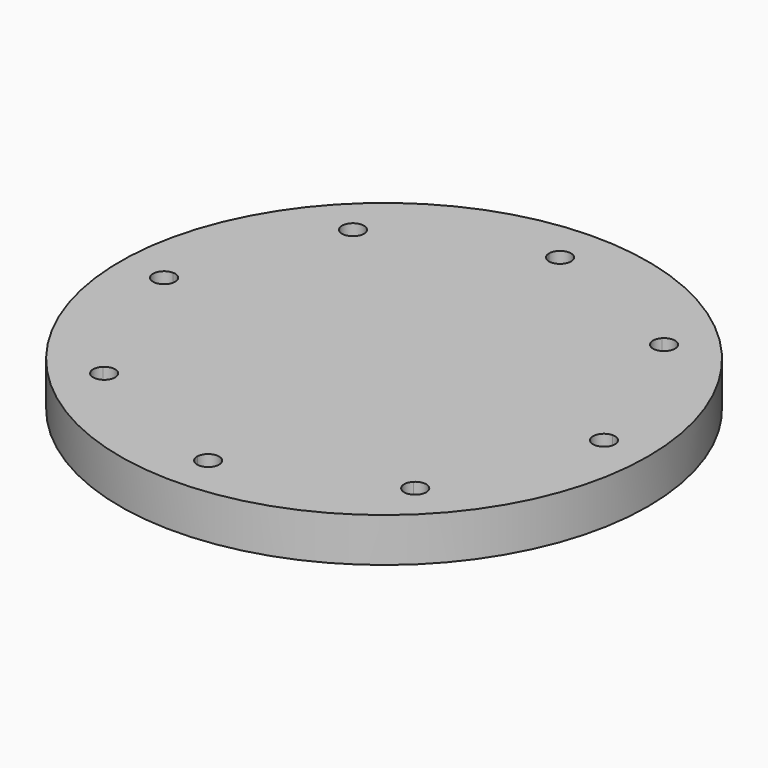
from build123d import *

# Parameters (mm, degrees)
F0_R     = 76.2
F1_DEPTH = 12.7


with BuildPart() as f1:
    # F0 (on Top) → F1 (new body)
    with BuildSketch(Plane.XY):
        Circle(F0_R)
        with BuildLine():
            ThreePointArc((47.0895163427, 42.6007916665), (58.6663503145, 24.3003979552), (63.420625, 3.1740076574))
            ThreePointArc((63.420625, 3.1740076574), (65.7168231069, 2.2729540938), (66.675, 0))
            ThreePointArc((66.675, 0), (65.7168231069, -2.2729540938), (63.420625, -3.1740076574))
            ThreePointArc((63.420625, -3.1740076574), (58.6663503145, -24.3003979552), (47.0895163427, -42.6007916665))
            ThreePointArc((47.0895163427, -42.6007916665), (47.8191799753, -43.6496863153), (48.0762806053, -44.9012806053))
            ThreePointArc((48.0762806053, -44.9012806053), (46.0795362268, -47.8495578465), (42.6007916665, -47.0895163427))
            ThreePointArc((42.6007916665, -47.0895163427), (24.3003979552, -58.6663503145), (3.1740076574, -63.420625))
            ThreePointArc((3.1740076574, -63.420625), (3.1747519047, -63.4603093986), (3.175, -63.5))
            ThreePointArc((3.175, -63.5), (-0.0396906014, -66.6747519047), (-3.1740076574, -63.420625))
            ThreePointArc((-3.1740076574, -63.420625), (-24.3003979552, -58.6663503145), (-42.6007916665, -47.0895163427))
            ThreePointArc((-42.6007916665, -47.0895163427), (-47.1463446356, -47.1463446356), (-47.0895163427, -42.6007916665))
            ThreePointArc((-47.0895163427, -42.6007916665), (-58.6663503145, -24.3003979552), (-63.420625, -3.1740076574))
            ThreePointArc((-63.420625, -3.1740076574), (-66.675, 0), (-63.420625, 3.1740076574))
            ThreePointArc((-63.420625, 3.1740076574), (-58.6663503145, 24.3003979552), (-47.0895163427, 42.6007916665))
            ThreePointArc((-47.0895163427, 42.6007916665), (-47.1463446356, 47.1463446356), (-42.6007916665, 47.0895163427))
            ThreePointArc((-42.6007916665, 47.0895163427), (-24.3003979552, 58.6663503145), (-3.1740076574, 63.420625))
            ThreePointArc((-3.1740076574, 63.420625), (-0.0396906014, 66.6747519047), (3.175, 63.5))
            ThreePointArc((3.175, 63.5), (3.1747519047, 63.4603093986), (3.1740076574, 63.420625))
            ThreePointArc((3.1740076574, 63.420625), (24.3003979552, 58.6663503145), (42.6007916665, 47.0895163427))
            ThreePointArc((42.6007916665, 47.0895163427), (46.0795362268, 47.8495578465), (48.0762806053, 44.9012806053))
            ThreePointArc((48.0762806053, 44.9012806053), (47.8191799753, 43.6496863153), (47.0895163427, 42.6007916665))
        make_face(mode=Mode.SUBTRACT)
        with BuildLine():
            Line((-42.6562165751, -42.6562165751), (0, 0))
            Line((0, 0), (-42.6562165751, 42.6562165751))
            ThreePointArc((-42.6562165751, 42.6562165751), (-44.8615900039, 41.7265287007), (-47.0895163427, 42.6007916665))
            ThreePointArc((-47.0895163427, 42.6007916665), (-58.6663503145, 24.3003979552), (-63.420625, 3.1740076574))
            ThreePointArc((-63.420625, 3.1740076574), (-61.2270459062, 2.2168231069), (-60.325, 0))
            ThreePointArc((-60.325, 0), (-61.2270459062, -2.2168231069), (-63.420625, -3.1740076574))
            ThreePointArc((-63.420625, -3.1740076574), (-58.6663503145, -24.3003979552), (-47.0895163427, -42.6007916665))
            ThreePointArc((-47.0895163427, -42.6007916665), (-44.8615900039, -41.7265287007), (-42.6562165751, -42.6562165751))
        make_face()
        with BuildLine():
            ThreePointArc((42.6007916665, -47.0895163427), (41.7265287007, -44.8615900039), (42.6562165751, -42.6562165751))
            Line((42.6562165751, -42.6562165751), (0, 0))
            Line((0, 0), (-42.6562165751, -42.6562165751))
            ThreePointArc((-42.6562165751, -42.6562165751), (-41.9679630896, -43.6862607076), (-41.7262806053, -44.9012806053))
            ThreePointArc((-41.7262806053, -44.9012806053), (-41.9530033642, -46.0795362268), (-42.6007916665, -47.0895163427))
            ThreePointArc((-42.6007916665, -47.0895163427), (-24.3003979552, -58.6663503145), (-3.1740076574, -63.420625))
            ThreePointArc((-3.1740076574, -63.420625), (0, -60.325), (3.1740076574, -63.420625))
            ThreePointArc((3.1740076574, -63.420625), (24.3003979552, -58.6663503145), (42.6007916665, -47.0895163427))
        make_face()
        with BuildLine():
            ThreePointArc((63.420625, -3.1740076574), (60.325, 0), (63.420625, 3.1740076574))
            ThreePointArc((63.420625, 3.1740076574), (58.6663503145, 24.3003979552), (47.0895163427, 42.6007916665))
            ThreePointArc((47.0895163427, 42.6007916665), (44.8615900039, 41.7265287007), (42.6562165751, 42.6562165751))
            Line((42.6562165751, 42.6562165751), (0, 0))
            Line((0, 0), (42.6562165751, -42.6562165751))
            ThreePointArc((42.6562165751, -42.6562165751), (44.8615900039, -41.7265287007), (47.0895163427, -42.6007916665))
            ThreePointArc((47.0895163427, -42.6007916665), (58.6663503145, -24.3003979552), (63.420625, -3.1740076574))
        make_face()
        with BuildLine():
            Line((0, 0), (42.6562165751, 42.6562165751))
            ThreePointArc((42.6562165751, 42.6562165751), (41.7265287007, 44.8615900039), (42.6007916665, 47.0895163427))
            ThreePointArc((42.6007916665, 47.0895163427), (24.3003979552, 58.6663503145), (3.1740076574, 63.420625))
            ThreePointArc((3.1740076574, 63.420625), (0, 60.325), (-3.1740076574, 63.420625))
            ThreePointArc((-3.1740076574, 63.420625), (-24.3003979552, 58.6663503145), (-42.6007916665, 47.0895163427))
            ThreePointArc((-42.6007916665, 47.0895163427), (-41.9530033642, 46.0795362268), (-41.7262806053, 44.9012806053))
            ThreePointArc((-41.7262806053, 44.9012806053), (-41.9679630896, 43.6862607076), (-42.6562165751, 42.6562165751))
            Line((-42.6562165751, 42.6562165751), (0, 0))
        make_face()
    extrude(amount=F1_DEPTH)


solid = f1.part
